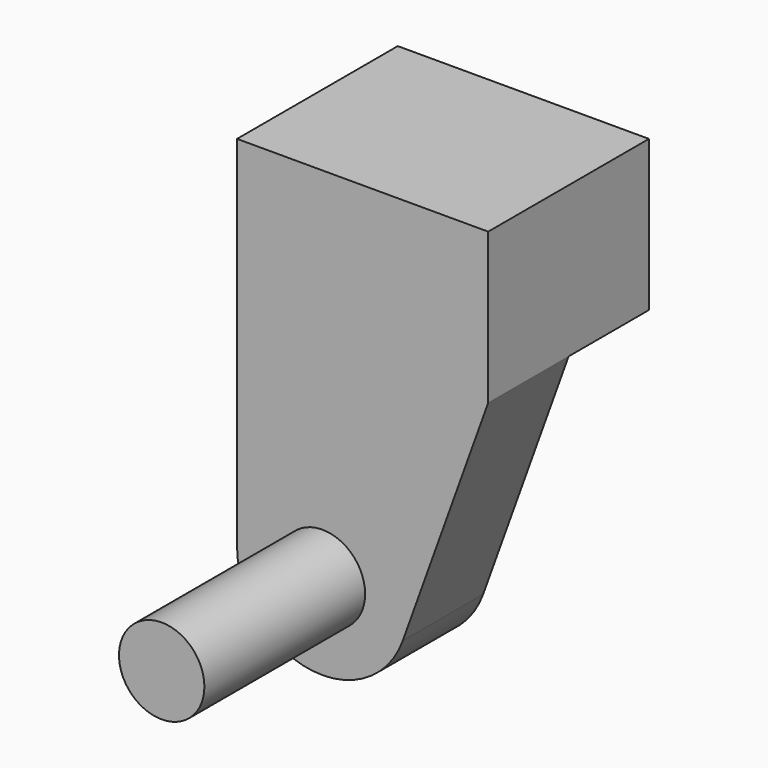
from build123d import *

# Parameters (mm, degrees)
F0_W     = 63.5
F0_H     = 38.1
F1_DEPTH = 25.4
F2_R     = 10.795746
F3_DEPTH = 76.2
F4_W     = 63.5
F4_H     = 38.1
F5_DEPTH = 25.4


with BuildPart() as f1:
    # F0 (on Front) → F1 (new body)
    with BuildSketch(Plane.XZ):
        with Locations((-2.008985, 33.25243)):
            Rectangle(F0_W, F0_H)
        with BuildLine():
            Line((29.741015, 14.20243), (-33.758985, 14.20243))
            Line((-33.758985, 14.20243), (-33.758985, -38.45109))
            ThreePointArc((-33.758985, -38.45109), (-12.168985, -16.86109), (9.421015, -38.45109))
            ThreePointArc((9.421015, -38.45109), (9.099334, -42.164136), (8.143877, -45.766536))
            Line((8.143877, -45.766536), (29.741015, 14.20243))
        make_face()
        with BuildLine():
            ThreePointArc((9.421015, -38.45109), (-12.168985, -16.86109), (-33.758985, -38.45109))
            ThreePointArc((-33.758985, -38.45109), (-15.88203, -59.71941), (8.143877, -45.766536))
            ThreePointArc((8.143877, -45.766536), (9.099334, -42.164136), (9.421015, -38.45109))
        make_face()
    extrude(amount=F1_DEPTH)

    # F2 (on Front) → F3 (join)
    with BuildSketch(Plane.XZ):
        with Locations((-12.168985, -38.45109)):
            Circle(F2_R)
    extrude(amount=F3_DEPTH)

    # F4 (on face) → F5 (join)
    with BuildSketch(Plane(origin=(0, 0, 0), x_dir=(-1, 0, 0), z_dir=(0, 1, 0))):
        with Locations((2.008985, 33.25243)):
            Rectangle(F4_W, F4_H)
    extrude(amount=F5_DEPTH)


solid = f1.part
